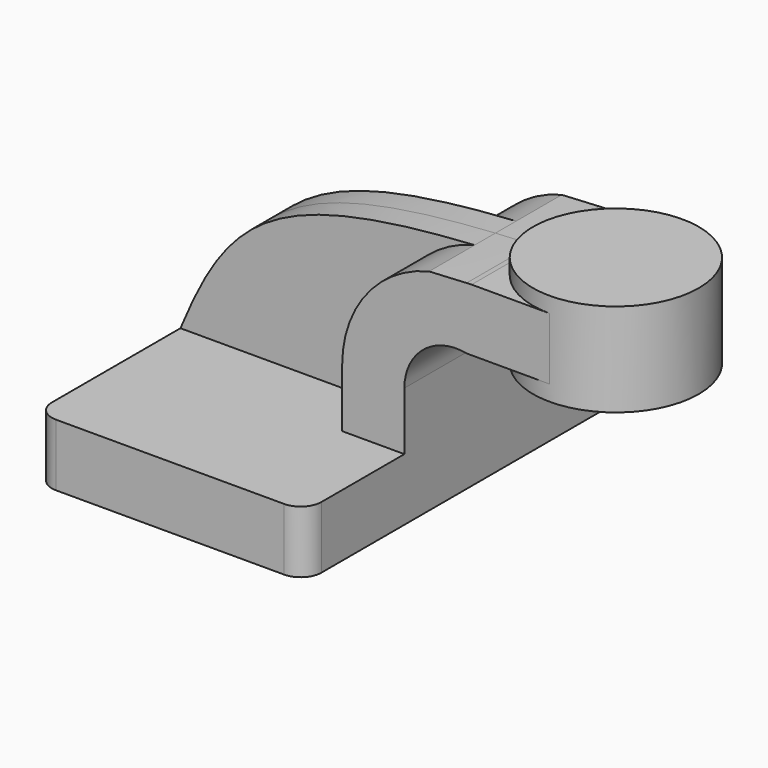
from build123d import *

# Parameters (mm, degrees)
F1_DEPTH = 63.5
F2_DEPTH = 25.4
F3_DEPTH = 7.9375
F5_R     = 6.35
F6_R     = 6.35
F7_R     = 6.35
F8_R     = 6.35


with BuildPart() as f1:
    # F0 (on Front) → F1 (new body, symmetric)
    with BuildSketch(Plane.XZ):
        Polygon((22.225, 9.525), (-41.275, 9.525), (-41.275, -9.525), (41.275, -9.525), (41.275, 9.525), align=None)
    extrude(amount=F1_DEPTH, both=True)

    # F0 (on Front) → F2 (join, symmetric)
    with BuildSketch(Plane.XZ):
        with BuildLine():
            Line((22.225, 27.32094), (22.225, 9.525))
            Line((22.225, 9.525), (41.275, 9.525))
            Line((41.275, 9.525), (41.275, 27.32094))
            ThreePointArc((41.275, 27.32094), (47.109768, 39.617662), (60.325, 42.8752))
            Line((60.325, 42.8752), (60.325, 61.857935))
            add(Edge.make_bspline(
                [(48.832623, 61.241094), (52.4914, 61.474881), (56.318798, 61.67946), (60.325, 61.857935)],
                knots=[108.446727, 108.446727, 108.446727, 108.446727, 114.871759, 114.871759, 114.871759, 114.871759], degree=3))
            ThreePointArc((48.832623, 61.241094), (29.670553, 48.876348), (22.225, 27.32094))
        make_face()
        with BuildLine():
            add(Edge.make_bspline(
                [(60.325, 61.857935), (60.837854, 61.880782), (61.353639, 61.903202), (61.872375, 61.9252)],
                knots=[114.871759, 114.871759, 114.871759, 114.871759, 115.69426, 115.69426, 115.69426, 115.69426], degree=3))
            Line((60.325, 61.857935), (60.325, 42.8752))
            Line((60.325, 42.8752), (85.725, 42.8752))
            Line((85.725, 42.8752), (85.725, 61.9252))
            Line((85.725, 61.9252), (61.872375, 61.9252))
        make_face()
    extrude(amount=F2_DEPTH, both=True)

    # F0 (on Front) → F3 (join, symmetric)
    with BuildSketch(Plane.XZ):
        with BuildLine():
            add(Edge.make_bspline(
                [(-41.275, 9.525), (-26.639564, 45.028193), (-12.923076, 57.295065), (48.832623, 61.241094)],
                knots=[0, 0, 0, 0, 108.446727, 108.446727, 108.446727, 108.446727], degree=3))
            Line((-41.275, 9.525), (22.225, 9.525))
            Line((22.225, 9.525), (22.225, 27.32094))
            ThreePointArc((22.225, 27.32094), (29.670553, 48.876348), (48.832623, 61.241094))
        make_face()
    extrude(amount=F3_DEPTH, both=True)

    # F0 (on Front) → F4 (revolve)
    with BuildSketch(Plane.XZ):
        Polygon((111.125, 66.675), (85.725, 66.675), (85.725, 61.9252), (85.725, 42.8752), (85.725, 38.1), (111.125, 38.1), align=None)
    revolve(axis=Axis((85.725, 0, 52.3875), (0, 0, 1)))

    # F5
    f5_edges = [f1.edges().sort_by_distance(p)[0] for p in [
        (41.275, -63.5, 0),
    ]]
    fillet(f5_edges, radius=F5_R)

    # F6
    f6_edges = [f1.edges().sort_by_distance(p)[0] for p in [
        (-41.275, -63.5, 0),
    ]]
    fillet(f6_edges, radius=F6_R)

    # F7
    f7_edges = [f1.edges().sort_by_distance(p)[0] for p in [
        (-41.275, 63.5, 0),
    ]]
    fillet(f7_edges, radius=F7_R)

    # F8
    f8_edges = [f1.edges().sort_by_distance(p)[0] for p in [
        (41.275, 63.5, 0),
    ]]
    fillet(f8_edges, radius=F8_R)


solid = f1.part
